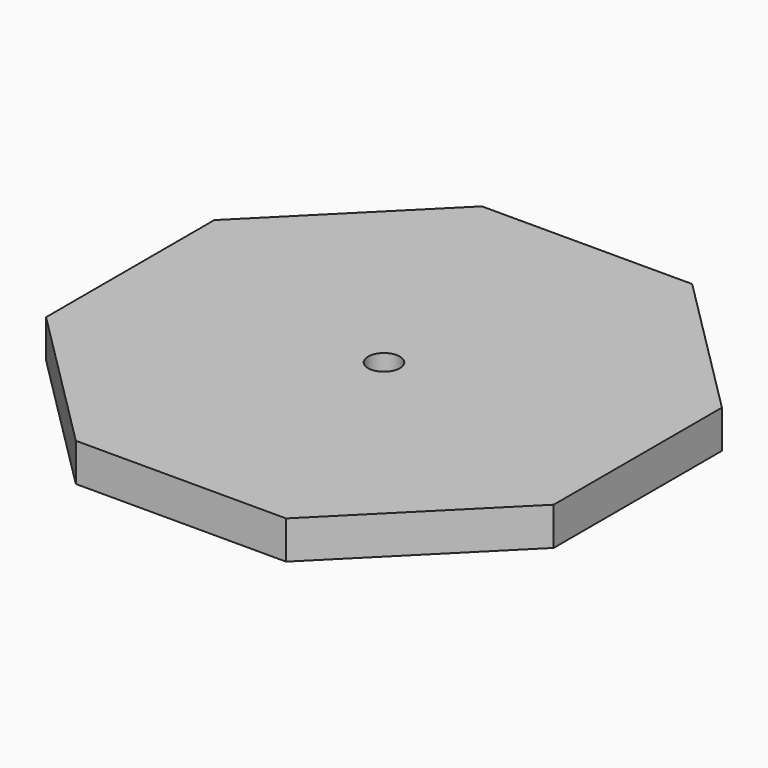
from build123d import *

# Parameters (mm, degrees)
F1_DEPTH = 12
F3_D     = 10


with BuildPart() as f1:
    # F0 (on Top) → F1 (new body)
    with BuildSketch(Plane.XY):
        Polygon((33.137085, 80), (-33.137085, 80), (-80, 33.137085), (-80, -33.137085), (-33.137085, -80), (33.137085, -80), (80, -33.137085), (80, 33.137085), align=None)
    extrude(amount=-F1_DEPTH)

    # F3 (through all)
    with Locations(Plane.XY):
        with Locations((0, 0)):
            Hole(F3_D / 2)


solid = f1.part
